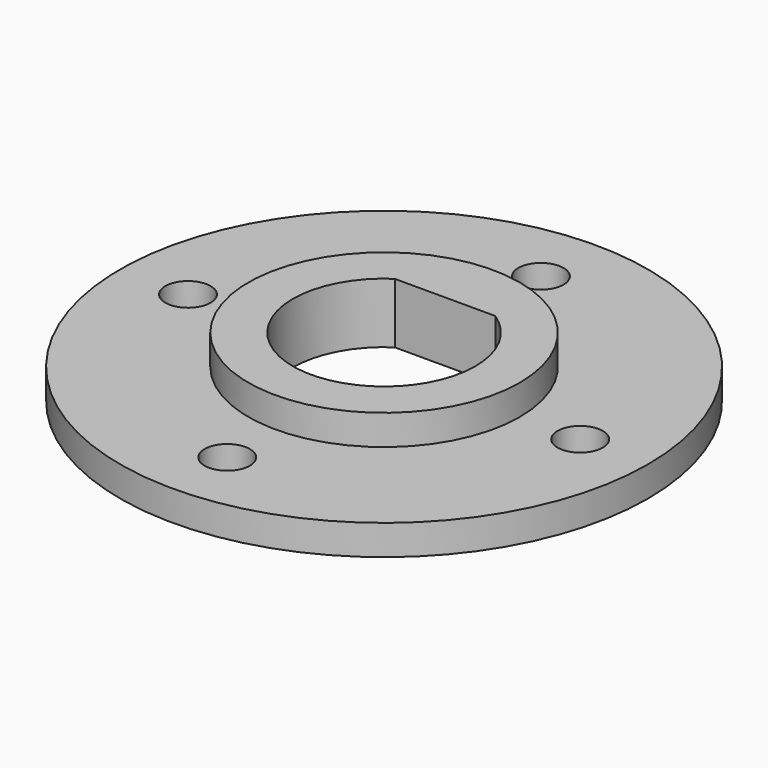
from build123d import *

# Parameters (mm, degrees)
F0_R     = 9
F1_DEPTH = 4
F0_R_2   = 17.5
F0_R_3   = 1.5
F2_DEPTH = 2


with BuildPart() as f1:
    # F0 (on Top) → F1 (new body)
    with BuildSketch(Plane.XY):
        Circle(F0_R)
        with BuildLine():
            ThreePointArc((3.331666, 5.05), (0, -6.05), (-3.331666, 5.05))
            Line((-3.331666, 5.05), (3.331666, 5.05))
        make_face(mode=Mode.SUBTRACT)
    extrude(amount=F1_DEPTH)

    # F0 (on Top) → F2 (join)
    with BuildSketch(Plane.XY):
        Circle(F0_R_2)
        with Locations((0, -13)):
            Circle(F0_R_3, mode=Mode.SUBTRACT)
        with Locations((-13, 0)):
            Circle(F0_R_3, mode=Mode.SUBTRACT)
        Circle(F0_R, mode=Mode.SUBTRACT)
        with Locations((13, 0)):
            Circle(F0_R_3, mode=Mode.SUBTRACT)
        with Locations((0, 13)):
            Circle(F0_R_3, mode=Mode.SUBTRACT)
    extrude(amount=F2_DEPTH)


solid = f1.part
